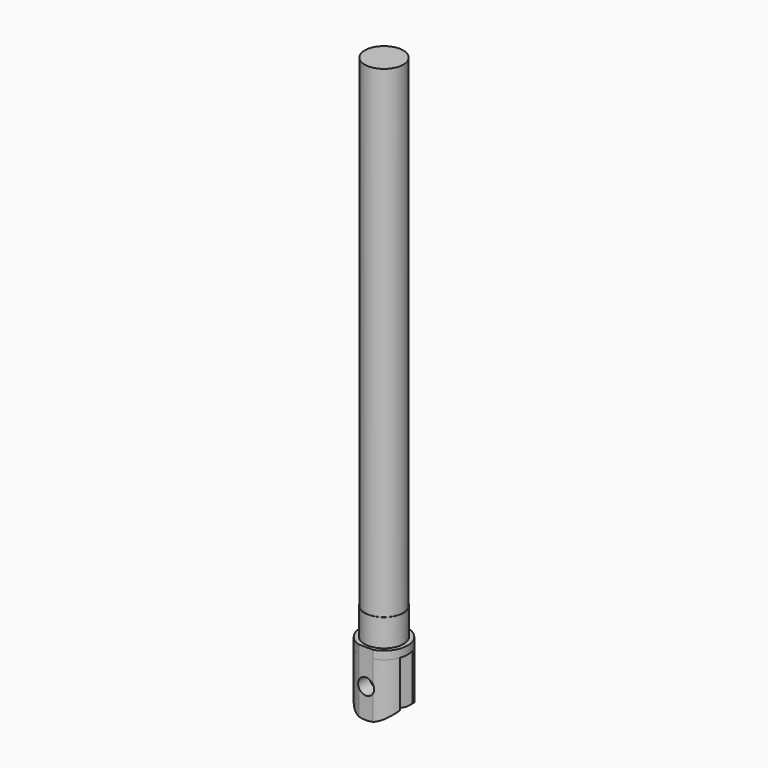
from build123d import *

# Parameters (mm, degrees)
SKETCH_R     = 12
PAD_DEPTH    = 317
PAD001_DEPTH = 5
SKETCH004_R  = 12.2
PAD003_DEPTH = 17
PAD004_DEPTH = 36
SKETCH006_R  = 5
POCKET_DEPTH = 28.001


with BuildPart() as part:
    # Sketch → Pad (new body)
    with BuildSketch(Plane.XY):
        Circle(SKETCH_R)
    extrude(amount=PAD_DEPTH)

    # Sketch001 → Pad001 (join)
    with BuildSketch(Plane.XY):
        with BuildLine():
            ThreePointArc((-4.482187, 14), (-14.7, 0), (-4.482187, -14))
            Line((-4.482187, -14), (4.482187, -14))
            ThreePointArc((4.482187, -14), (14.7, 0), (4.482187, 14))
            Line((-4.482187, 14), (4.482187, 14))
        make_face()
    extrude(amount=-PAD001_DEPTH)

    # Sketch004 (on Face2 of Pad) → Pad003 (join)
    with BuildSketch(Plane(origin=(0, 0, 0), x_dir=(1, 0, 0), z_dir=(0, 0, -1))):
        Circle(SKETCH004_R)
    extrude(amount=-PAD003_DEPTH)

    # Sketch005 (on Face5 of Pad003) → Pad004 (join)
    with BuildSketch(Plane(origin=(0, 0, -5), x_dir=(1, 0, 0), z_dir=(0, 0, -1))):
        with BuildLine():
            ThreePointArc((-4.482187, 14), (-10.199256, 10.586084), (-13.823531, 5))
            Line((-13.823531, 5), (13.823531, 5))
            ThreePointArc((13.823531, 5), (10.199256, 10.586084), (4.482187, 14))
            Line((-4.482187, 14), (4.482187, 14))
        make_face()
        with BuildLine():
            Line((-13.823531, -5), (13.823531, -5))
            ThreePointArc((4.482187, -14), (10.199256, -10.586084), (13.823531, -5))
            Line((4.482187, -14), (-4.482187, -14))
            ThreePointArc((-13.823531, -5), (-10.199256, -10.586084), (-4.482187, -14))
        make_face()
    extrude(amount=PAD004_DEPTH)

    # Sketch006 (on Face9 of Pad004) → Pocket (cut, through all)
    with BuildSketch(Plane(origin=(0, 14, 0), x_dir=(-1, 0, 0), z_dir=(0, 1, 0))):
        with Locations((0, -21.5)):
            Circle(SKETCH006_R)
        with BuildLine():
            ThreePointArc((-18.5, -21.5), (0, -40), (18.5, -21.5))
            Line((18.5, -21.5), (18.5, -43))
            Line((-18.5, -43), (18.5, -43))
            Line((-18.5, -21.5), (-18.5, -43))
        make_face()
    extrude(amount=-POCKET_DEPTH, mode=Mode.SUBTRACT)


solid = part.part
